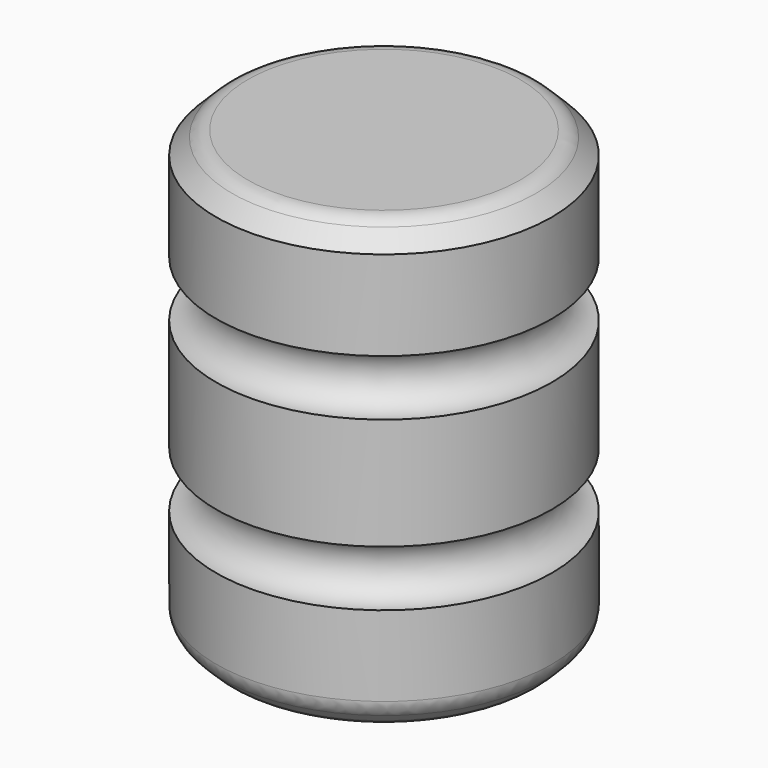
from build123d import *

# Parameters (mm, degrees)
F2_SIZE = 5.08
F3_R    = 5.08
F4_SIZE = 5.08
F5_R    = 5.08


with BuildPart() as f1:
    # F0 (on Front) → F1 (revolve)
    with BuildSketch(Plane.XZ):
        with BuildLine():
            Line((-38.1, 0), (0, 0))
            Line((0, 0), (0, 25.4))
            ThreePointArc((0, 25.4), (-6.35, 31.75), (0, 38.1))
            Line((0, 38.1), (0, 63.5))
            ThreePointArc((0, 63.5), (-6.35, 69.85), (0, 76.2))
            Line((0, 76.2), (0, 101.6))
            Line((0, 101.6), (-38.1, 101.6))
            Line((-38.1, 101.6), (-38.1, 0))
        make_face()
    revolve(axis=Axis((-38.1, 0, 50.8), (0, 0, 1)))

    # F2
    f2_edges = [f1.edges().sort_by_distance(p)[0] for p in [
        (-76.2, 0, 0),
    ]]
    chamfer(f2_edges, length=F2_SIZE)

    # F3
    f3_edges = [f1.edges().sort_by_distance(p)[0] for p in [
        (-2.54, 0, 2.54),
        (-71.12, 0, 0),
        (-76.2, 0, 5.08),
    ]]
    fillet(f3_edges, radius=F3_R)

    # F4
    f4_edges = [f1.edges().sort_by_distance(p)[0] for p in [
        (-76.2, 0, 101.6),
    ]]
    chamfer(f4_edges, length=F4_SIZE)

    # F5
    f5_edges = [f1.edges().sort_by_distance(p)[0] for p in [
        (-71.12, 0, 101.6),
    ]]
    fillet(f5_edges, radius=F5_R)


solid = f1.part
